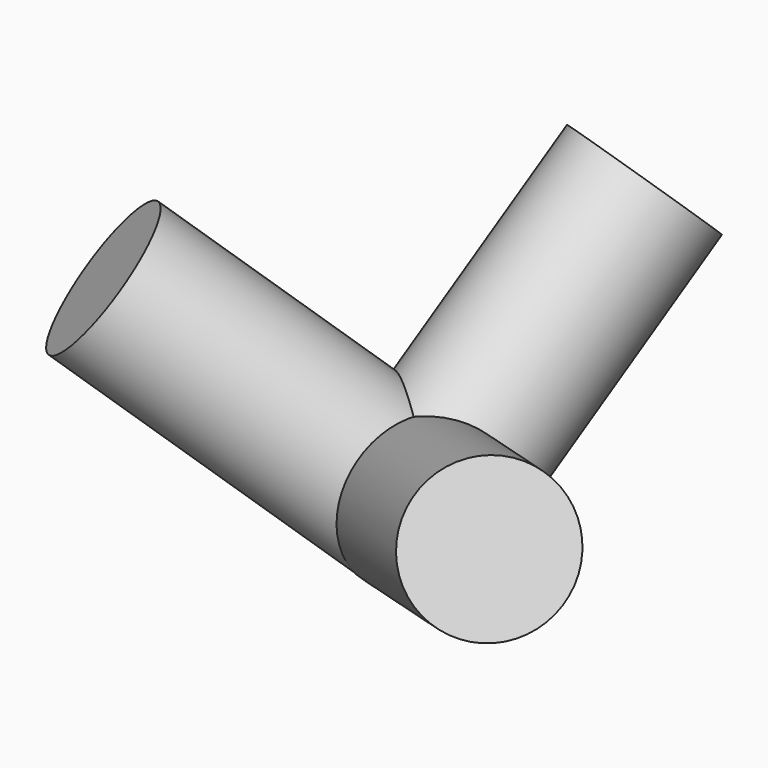
from build123d import *

# Parameters (mm, degrees)
F0_R     = 6.1244323333
F1_DEPTH = 25.4
F2_R     = 6.0772715689
F3_DEPTH = 25.4
F4_R     = 6.1139326005
F5_DEPTH = 25.4
F6_ANGLE = -50
F7_ANGLE = -70
F8_ANGLE = -50


with BuildPart() as f1:
    # F0 (on Right) → F1 (new body)
    with BuildSketch(Plane.YZ):
        Circle(F0_R)
    extrude(amount=F1_DEPTH)


with BuildPart() as f3:
    # F2 (on Front) → F3 (new body)
    with BuildSketch(Plane.XZ):
        Circle(F2_R)
    extrude(amount=-F3_DEPTH)


with BuildPart() as f5:
    # F4 (on Top) → F5 (new body)
    with BuildSketch(Plane.XY):
        Circle(F4_R)
    extrude(amount=F5_DEPTH)


with BuildPart() as f3_1:
    # F6: moved
    add(f3.part.rotate(Axis((0, 0, 0), (0, 0, -1)), F6_ANGLE))


with BuildPart() as f5_1:
    # F6: moved
    add(f5.part.rotate(Axis((0, 0, 0), (0, 0, -1)), F6_ANGLE))


with BuildPart() as f1_1:
    # F6: moved
    add(f1.part.rotate(Axis((0, 0, 0), (0, 0, -1)), F6_ANGLE))


with BuildPart() as f3_2:
    # F7: moved
    add(f3_1.part.rotate(Axis((0, 0, 0), (-0.6427876097, -0.7660444431, 0)), F7_ANGLE))


with BuildPart() as f5_2:
    # F7: moved
    add(f5_1.part.rotate(Axis((0, 0, 0), (-0.6427876097, -0.7660444431, 0)), F7_ANGLE))


with BuildPart() as f1_2:
    # F7: moved
    add(f1_1.part.rotate(Axis((0, 0, 0), (-0.6427876097, -0.7660444431, 0)), F7_ANGLE))


with BuildPart() as f5_3:
    # F8: moved
    add(f5_2.part.rotate(Axis((0, 0, 0), (-0.7198463104, 0.6040227736, -0.3420201433)), F8_ANGLE))


with BuildPart() as f1_3:
    # F8: moved
    add(f1_2.part.rotate(Axis((0, 0, 0), (-0.7198463104, 0.6040227736, -0.3420201433)), F8_ANGLE))


with BuildPart() as f3_3:
    # F8: moved
    add(f3_2.part.rotate(Axis((0, 0, 0), (-0.7198463104, 0.6040227736, -0.3420201433)), F8_ANGLE))


solid = Compound([f5_3.part, f1_3.part, f3_3.part])
